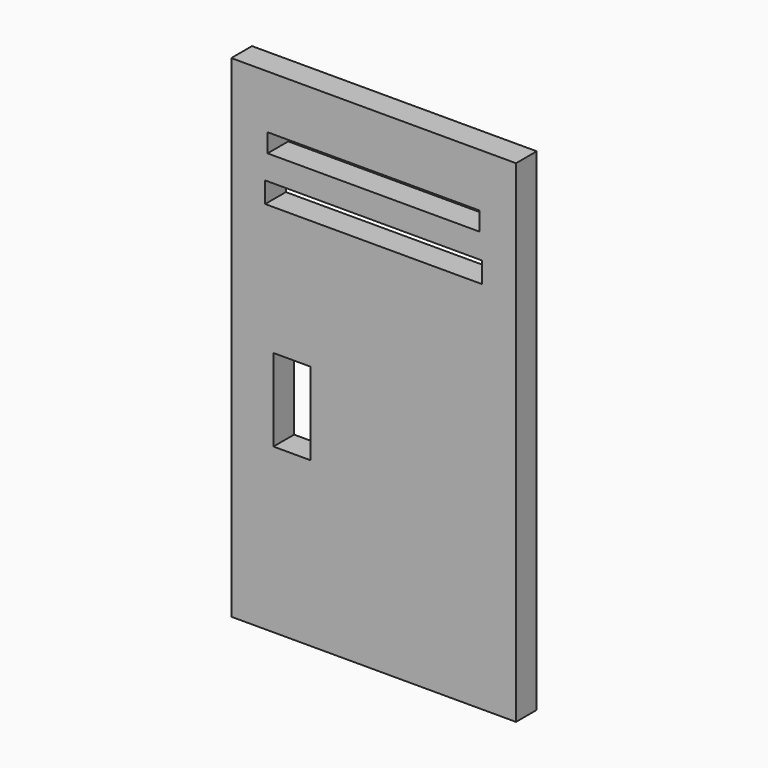
from build123d import *

# Parameters (mm, degrees)
F0_W     = 279.4
F0_H     = 482.6
F0_W_2   = 36.333978
F0_H_2   = 80.860719
F0_W_3   = 212.858026
F0_H_3   = 20.434359
F0_W_4   = 208.171276
F0_H_4   = 18.279733
F1_DEPTH = 25.4


with BuildPart() as f1:
    # F0 (on Front) → F1 (new body)
    with BuildSketch(Plane.XZ):
        Rectangle(F0_W, F0_H)
        with Locations((-80.195993, -40.43036)):
            Rectangle(F0_W_2, F0_H_2, mode=Mode.SUBTRACT)
        with Locations((0, 136.219447)):
            Rectangle(F0_W_3, F0_H_3, mode=Mode.SUBTRACT)
        with Locations((0, 179.680096)):
            Rectangle(F0_W_4, F0_H_4, mode=Mode.SUBTRACT)
    extrude(amount=F1_DEPTH)


solid = f1.part
